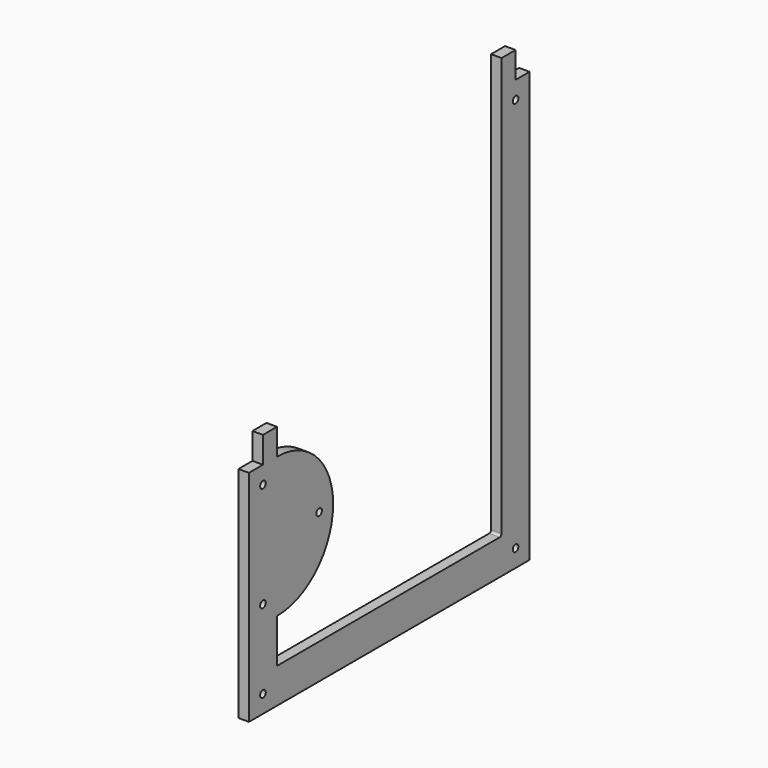
from build123d import *

# Parameters (mm, degrees)
F0_R     = 2
F1_DEPTH = 6


with BuildPart() as f1:
    # F0 (on Right) → F1 (new body)
    with BuildSketch(Plane.YZ):
        with BuildLine():
            ThreePointArc((0, 1.27), (-0.371974, 0.371974), (-1.27, 0))
            Line((-1.27, 0), (-160, 0))
            Line((-160, 0), (-160, 25))
            ThreePointArc((-160, 25), (-120, 65), (-160, 105))
            Line((-160, 105), (-160, 120))
            Line((-160, 120), (-170, 120))
            Line((-170, 120), (-170, 105))
            Line((-170, 105), (-180, 105))
            Line((-180, 105), (-180, -20))
            Line((-180, -20), (20, -20))
            Line((20, -20), (20, 225))
            Line((20, 225), (10, 225))
            Line((10, 225), (10, 240))
            Line((10, 240), (0, 240))
            Line((0, 240), (0, 1.27))
        make_face()
        with Locations((-170, -10)):
            Circle(F0_R, mode=Mode.SUBTRACT)
        with Locations((-170, 35)):
            Circle(F0_R, mode=Mode.SUBTRACT)
        with Locations((-170, 95)):
            Circle(F0_R, mode=Mode.SUBTRACT)
        with Locations((-130, 65)):
            Circle(F0_R, mode=Mode.SUBTRACT)
        with Locations((10, -10)):
            Circle(F0_R, mode=Mode.SUBTRACT)
        with Locations((10, 215)):
            Circle(F0_R, mode=Mode.SUBTRACT)
    extrude(amount=F1_DEPTH)


solid = f1.part
